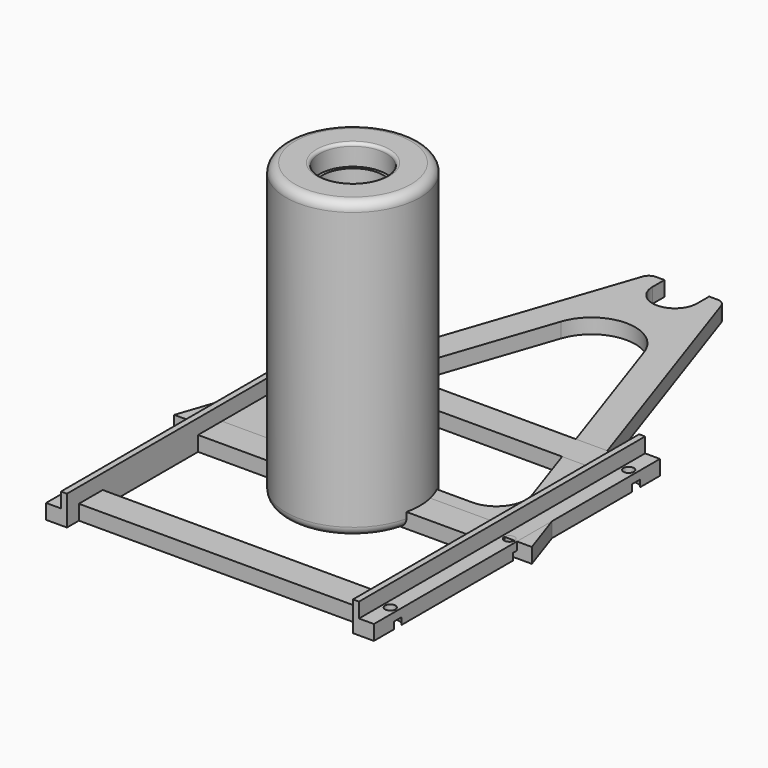
from build123d import *

# Parameters (mm, degrees)
PAD_DEPTH       = 5
POCKET_DEPTH    = 5.001
FILLET_R        = 3
SKETCH010_R     = 1.25
POCKET005_DEPTH = 9.8
PAD001_DEPTH    = 5
SKETCH003_R     = 4.25
PAD002_DEPTH    = 7.5
SKETCH011_R     = 10
PAD006_DEPTH    = 2
SKETCH004_R     = 22.5
PAD003_DEPTH    = 99
SKETCH005_R     = 11.225
POCKET001_DEPTH = 7
SKETCH006_R     = 11.225
POCKET002_DEPTH = 7
SKETCH007_R     = 10.225
POCKET003_DEPTH = 92.001
FILLET002_R     = 1
FILLET003_R     = 3
SKETCH008_W     = 110
SKETCH008_H     = 120
PAD004_DEPTH    = 5
SKETCH009_R     = 1.75
POCKET006_DEPTH = 5.001
SKETCH012_W     = 96
SKETCH012_H     = 5
SKETCH012_H_2   = 40
POCKET007_DEPTH = 5.001
SKETCH014_W     = 2
SKETCH014_H     = 120
PAD007_DEPTH    = 5
SKETCH015_R     = 3
POCKET008_DEPTH = 2.3


with BuildPart() as body:
    # Sketch → Pad (new body)
    with BuildSketch(Plane.XY):
        with BuildLine():
            ThreePointArc((-7.5, 135), (0, 127.5), (7.5, 135))
            Line((7.5, 140), (7.5, 135))
            Line((12.5, 140), (7.5, 140))
            Line((60, 0), (12.5, 140))
            Line((-60, 0), (60, 0))
            Line((-12.5, 140), (-60, 0))
            Line((-7.5, 140), (-12.5, 140))
            Line((-7.5, 135), (-7.5, 140))
        make_face()
    extrude(amount=PAD_DEPTH)

    # Sketch001 (on Face10 of Pad) → Pocket (cut, through all)
    with BuildSketch(Plane.XY.offset(5)):
        with BuildLine():
            ThreePointArc((-41.564274, 23.212963), (-40.222513, 14.174609), (-32.094487, 10))
            Line((-32.094487, 10), (32.094487, 10))
            ThreePointArc((32.094487, 10), (40.222513, 14.174609), (41.564274, 23.212963))
            Line((41.564274, 23.212963), (13.910253, 104.71955))
            ThreePointArc((13.910253, 104.71955), (0, 114.689088), (-13.910253, 104.71955))
            Line((-13.910253, 104.71955), (-41.564274, 23.212963))
        make_face()
    extrude(amount=-POCKET_DEPTH, mode=Mode.SUBTRACT)

    # Fillet
    fillet_edges = [body.edges().sort_by_distance(p)[0] for p in [
        (12.5, 140, 2.5),
        (-12.5, 140, 2.5),
    ]]
    fillet(fillet_edges, radius=FILLET_R)

    # Sketch010 (on Face7 of Fillet) → Pocket005 (cut)
    with BuildSketch(Plane.XZ):
        with Locations((-50, 2.5)):
            Circle(SKETCH010_R)
        with Locations((0, 2.5)):
            Circle(SKETCH010_R)
        with Locations((50, 2.5)):
            Circle(SKETCH010_R)
    extrude(amount=-POCKET005_DEPTH, mode=Mode.SUBTRACT)


with BuildPart() as body001:
    # Sketch002 → Pad001 (new body)
    with BuildSketch(Plane.XY):
        with BuildLine():
            ThreePointArc((-7.45, 0), (0, -7.45), (7.45, 0))
            Line((7.45, 5), (7.45, 0))
            Line((-7.45, 5), (7.45, 5))
            Line((-7.45, 0), (-7.45, 5))
        make_face()
    extrude(amount=PAD001_DEPTH)

    # Sketch003 (on Face6 of Pad001) → Pad002 (join)
    with BuildSketch(Plane.XY.offset(5)):
        Circle(SKETCH003_R)
    extrude(amount=PAD002_DEPTH)

    # Sketch011 (on Face4 of Pad002) → Pad006 (join)
    with BuildSketch(Plane(origin=(0, 0, 0), x_dir=(1, 0, 0), z_dir=(0, 0, -1))):
        Circle(SKETCH011_R)
    extrude(amount=PAD006_DEPTH)


with BuildPart() as body002:
    # Sketch004 → Pad003 (new body)
    with BuildSketch(Plane.XY):
        Circle(SKETCH004_R)
    extrude(amount=PAD003_DEPTH)

    # Sketch005 (on Face2 of Pad003) → Pocket001 (cut)
    with BuildSketch(Plane(origin=(0, 0, 0), x_dir=(1, 0, 0), z_dir=(0, 0, -1))):
        Circle(SKETCH005_R)
    extrude(amount=-POCKET001_DEPTH, mode=Mode.SUBTRACT)

    # Sketch006 (on Face3 of Pocket001) → Pocket002 (cut)
    with BuildSketch(Plane.XY.offset(99)):
        Circle(SKETCH006_R)
    extrude(amount=-POCKET002_DEPTH, mode=Mode.SUBTRACT)

    # Sketch007 (on Face7 of Pocket002) → Pocket003 (cut, through all)
    with BuildSketch(Plane.XY.offset(92)):
        Circle(SKETCH007_R)
    extrude(amount=-POCKET003_DEPTH, mode=Mode.SUBTRACT)

    # Fillet002
    fillet002_edges = [body002.edges().sort_by_distance(p)[0] for p in [
        (-11.225, 0, 0),
        (-11.225, 0, 99),
    ]]
    fillet(fillet002_edges, radius=FILLET002_R)

    # Fillet003
    fillet003_edges = [body002.edges().sort_by_distance(p)[0] for p in [
        (-22.5, 0, 99),
        (-22.5, 0, 0),
    ]]
    fillet(fillet003_edges, radius=FILLET003_R)


with BuildPart() as body003:
    # Sketch008 → Pad004 (new body)
    with BuildSketch(Plane.XY):
        Rectangle(SKETCH008_W, SKETCH008_H)
    extrude(amount=PAD004_DEPTH)

    # Sketch009 (on Face6 of Pad004) → Pocket006 (cut, through all)
    with BuildSketch(Plane.XY.offset(5)):
        with Locations((-52.5, 50)):
            Circle(SKETCH009_R)
        with Locations((-52.5, 0)):
            Circle(SKETCH009_R)
        with Locations((-52.5, -50)):
            Circle(SKETCH009_R)
        with Locations((52.5, -50)):
            Circle(SKETCH009_R)
        with Locations((52.5, 0)):
            Circle(SKETCH009_R)
        with Locations((52.5, 50)):
            Circle(SKETCH009_R)
    extrude(amount=-POCKET006_DEPTH, mode=Mode.SUBTRACT)

    # Sketch012 (on Face5 of Pocket006) → Pocket007 (cut, through all)
    with BuildSketch(Plane.XY.offset(5)):
        with Locations((0, 57.5)):
            Rectangle(SKETCH012_W, SKETCH012_H)
        with Locations((0, -57.5)):
            Rectangle(SKETCH012_W, SKETCH012_H)
        with Locations((0, 25)):
            Rectangle(SKETCH012_W, SKETCH012_H_2)
        with Locations((0, -25)):
            Rectangle(SKETCH012_W, SKETCH012_H_2)
    extrude(amount=-POCKET007_DEPTH, mode=Mode.SUBTRACT)

    # Sketch014 (on Face4 of Pocket007) → Pad007 (join)
    with BuildSketch(Plane.XY.offset(5)):
        with Locations((-49, 0)):
            Rectangle(SKETCH014_W, SKETCH014_H)
        with Locations((49, 0)):
            Rectangle(SKETCH014_W, SKETCH014_H)
    extrude(amount=PAD007_DEPTH)

    # Sketch015 (on Face2 of Pad007) → Pocket008 (cut)
    with BuildSketch(Plane(origin=(0, 0, 0), x_dir=(1, 0, 0), z_dir=(0, 0, -1))):
        with Locations((-52.5, 50)):
            Circle(SKETCH015_R)
        with Locations((-52.5, 0)):
            Circle(SKETCH015_R)
        with Locations((-52.5, -50)):
            Circle(SKETCH015_R)
        with Locations((52.5, -50)):
            Circle(SKETCH015_R)
        with Locations((52.5, 0)):
            Circle(SKETCH015_R)
        with Locations((52.5, 50)):
            Circle(SKETCH015_R)
    extrude(amount=-POCKET008_DEPTH, mode=Mode.SUBTRACT)


solid = Compound([body.part, body001.part, body002.part, body003.part])
